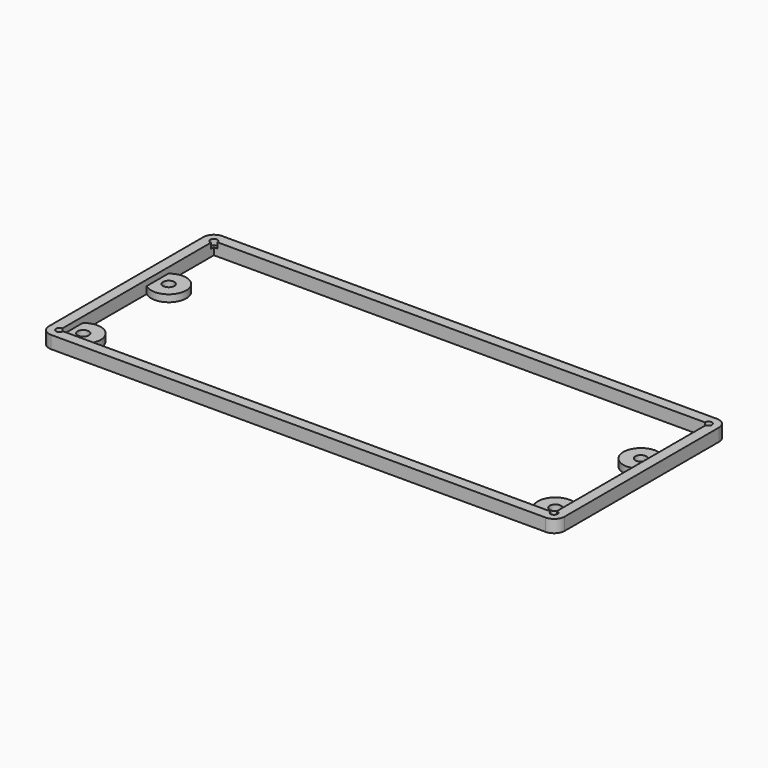
from build123d import *

# Parameters (mm, degrees)
SKETCH001_W   = 141
SKETCH001_H   = 55
PAD_DEPTH     = 3.6
SKETCH002_R   = 5
SKETCH002_R_2 = 1.6
PAD001_DEPTH  = 2
SKETCH003_R   = 1
POCKET_DEPTH  = 1.601


with BuildPart() as part:
    # Sketch001 → Pad (new body)
    with BuildSketch(Plane.XY):
        with BuildLine():
            Line((0, -3), (141, -3))
            ThreePointArc((141, -3), (143.12132, -2.12132), (144, 0))
            Line((144, 0), (144, 55))
            ThreePointArc((144, 55), (143.12132, 57.12132), (141, 58))
            Line((141, 58), (0, 58))
            ThreePointArc((0, 58), (-2.12132, 57.12132), (-3, 55))
            Line((-3, 55), (-3, 0))
            ThreePointArc((-3, 0), (-2.12132, -2.12132), (0, -3))
        make_face()
        with Locations((70.5, 27.5)):
            Rectangle(SKETCH001_W, SKETCH001_H, mode=Mode.SUBTRACT)
    extrude(amount=PAD_DEPTH)

    # Sketch002 → Pad001 (join)
    with BuildSketch(Plane.XY):
        with Locations((3.19, 34.92)):
            Circle(SKETCH002_R)
        with Locations((3.19, 34.92)):
            Circle(SKETCH002_R_2, mode=Mode.SUBTRACT)
        with Locations((3.19, 4.44)):
            Circle(SKETCH002_R)
        with Locations((3.19, 4.44)):
            Circle(SKETCH002_R_2, mode=Mode.SUBTRACT)
        with Locations((137.81, 4.44)):
            Circle(SKETCH002_R)
        with Locations((137.81, 4.44)):
            Circle(SKETCH002_R_2, mode=Mode.SUBTRACT)
        with Locations((137.81, 34.92)):
            Circle(SKETCH002_R)
        with Locations((137.81, 34.92)):
            Circle(SKETCH002_R_2, mode=Mode.SUBTRACT)
    extrude(amount=PAD001_DEPTH)

    # Sketch003 → Pocket (cut, through all)
    with BuildSketch(Plane.XY.offset(2)):
        with Locations((0, 55)):
            Circle(SKETCH003_R)
        with Locations((141, 55)):
            Circle(SKETCH003_R)
        Circle(SKETCH003_R)
        with Locations((141, 0)):
            Circle(SKETCH003_R)
    extrude(amount=POCKET_DEPTH, mode=Mode.SUBTRACT)


solid = part.part
